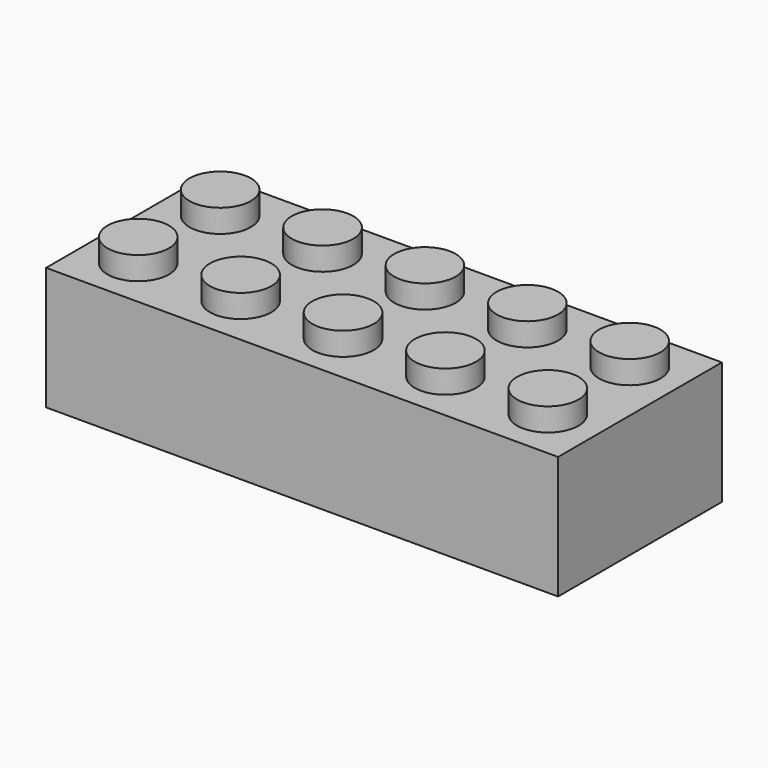
from build123d import *

# Parameters (mm, degrees)
F0_W     = 40
F0_H     = 16
F1_DEPTH = 9.6
F2_R     = 2.4
F3_DEPTH = 1.8
F4_T     = -1.8


with BuildPart() as f1:
    # F0 (on Top) → F1 (new body)
    with BuildSketch(Plane.XY):
        with Locations((-20, 8)):
            Rectangle(F0_W, F0_H)
    extrude(amount=F1_DEPTH)

    # F2 (on face) → F3 (join)
    with BuildSketch(Plane.XY.offset(9.6)):
        with Locations((-36, 12)):
            Circle(F2_R)
        with Locations((-36, 4)):
            Circle(F2_R)
        with Locations((-28, 4)):
            Circle(F2_R)
        with Locations((-28, 12)):
            Circle(F2_R)
        with Locations((-20, 4)):
            Circle(F2_R)
        with Locations((-12, 4)):
            Circle(F2_R)
        with Locations((-4, 4)):
            Circle(F2_R)
        with Locations((-4, 12)):
            Circle(F2_R)
        with Locations((-12, 12)):
            Circle(F2_R)
        with Locations((-20, 12)):
            Circle(F2_R)
    extrude(amount=F3_DEPTH)

    # F4
    f4_openings = [f1.faces().sort_by_distance(p)[0] for p in [
        (-20, 8, 0),
    ]]
    offset(amount=F4_T, openings=f4_openings, kind=Kind.INTERSECTION)


solid = f1.part
